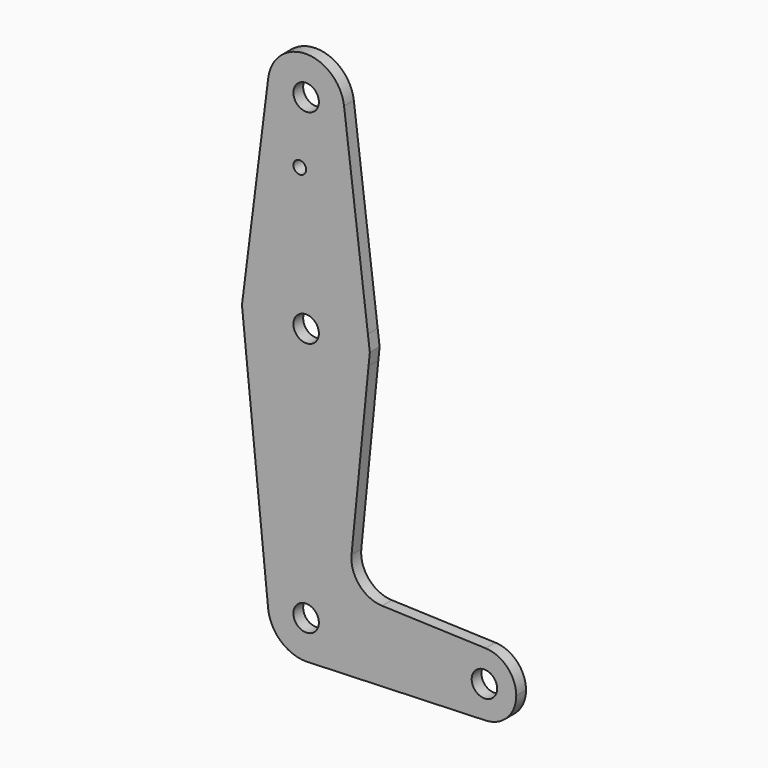
from build123d import *

# Parameters (mm, degrees)
F0_R     = 3.175
F0_R_2   = 1.5875
F1_DEPTH = 3.048


with BuildPart() as f1:
    # F0 (on Front) → F1 (new body)
    with BuildSketch(Plane.XZ):
        with BuildLine():
            ThreePointArc((9.525, 50.8), (9.507007, 51.385183), (9.453097, 51.968155))
            ThreePointArc((9.453097, 51.968155), (0.011322, 60.324993), (-9.450293, 51.990625))
            ThreePointArc((-9.450293, 51.990625), (-0.596483, 41.293695), (9.525, 50.8))
        make_face()
        with Locations((0, 50.8)):
            Circle(F0_R, mode=Mode.SUBTRACT)
        with BuildLine():
            ThreePointArc((-15.750488, 1.984375), (-0.95647, 15.84616), (15.397454, 3.864457))
            Line((15.397454, 3.864457), (9.453097, 51.968155))
            ThreePointArc((9.453097, 51.968155), (9.507007, 51.385183), (9.525, 50.8))
            ThreePointArc((9.525, 50.8), (-0.596483, 41.293695), (-9.450293, 51.990625))
            Line((-9.450293, 51.990625), (-15.750488, 1.984375))
        make_face()
        with Locations((-1.5875, 34.901615)):
            Circle(F0_R_2, mode=Mode.SUBTRACT)
        with BuildLine():
            Line((15.565216, -3.120845), (15.875, 0))
            Line((15.875, 0), (15.397454, 3.864457))
            ThreePointArc((15.397454, 3.864457), (-0.95647, 15.84616), (-15.750488, 1.984375))
            ThreePointArc((-15.750488, 1.984375), (-2.55429, -15.66816), (15.565216, -3.120845))
        make_face()
        Circle(F0_R, mode=Mode.SUBTRACT)
        with BuildLine():
            Line((11.317296, -45.915519), (15.565216, -3.120845))
            ThreePointArc((15.565216, -3.120845), (-2.55429, -15.66816), (-15.750488, 1.984375))
            Line((-15.750488, 1.984375), (-16.000496, 0))
            Line((-16.000496, 0), (-9.476587, -64.459126))
            ThreePointArc((-9.476587, -64.459126), (-0.480173, -53.987111), (9.525, -63.5))
            ThreePointArc((9.525, -63.5), (6.970557, -69.991299), (0.677344, -73.000886))
            Line((0.677344, -73.000886), (44.732405, -71.432475))
            ThreePointArc((44.732405, -71.432475), (36.5125, -63.499461), (44.733482, -55.567564))
            Line((44.733482, -55.567564), (18.94468, -54.645947))
            ThreePointArc((18.94468, -54.645947), (13.241492, -51.931501), (11.317296, -45.915519))
        make_face()
        with BuildLine():
            ThreePointArc((9.525, -63.5), (-0.480173, -53.987111), (-9.476587, -64.459126))
            ThreePointArc((-9.476587, -64.459126), (-6.387095, -70.566162), (0, -73.025))
            Line((0, -73.025), (0.677344, -73.000886))
            ThreePointArc((0.677344, -73.000886), (6.970557, -69.991299), (9.525, -63.5))
        make_face()
        with Locations((0, -63.5)):
            Circle(F0_R, mode=Mode.SUBTRACT)
        with BuildLine():
            ThreePointArc((52.3875, -63.5), (50.162007, -57.988477), (44.733482, -55.567564))
            ThreePointArc((44.733482, -55.567564), (36.5125, -63.499461), (44.732405, -71.432475))
            ThreePointArc((44.732405, -71.432475), (50.161633, -69.01191), (52.3875, -63.5))
        make_face()
        with Locations((44.45, -63.5)):
            Circle(F0_R, mode=Mode.SUBTRACT)
    extrude(amount=F1_DEPTH)


solid = f1.part
